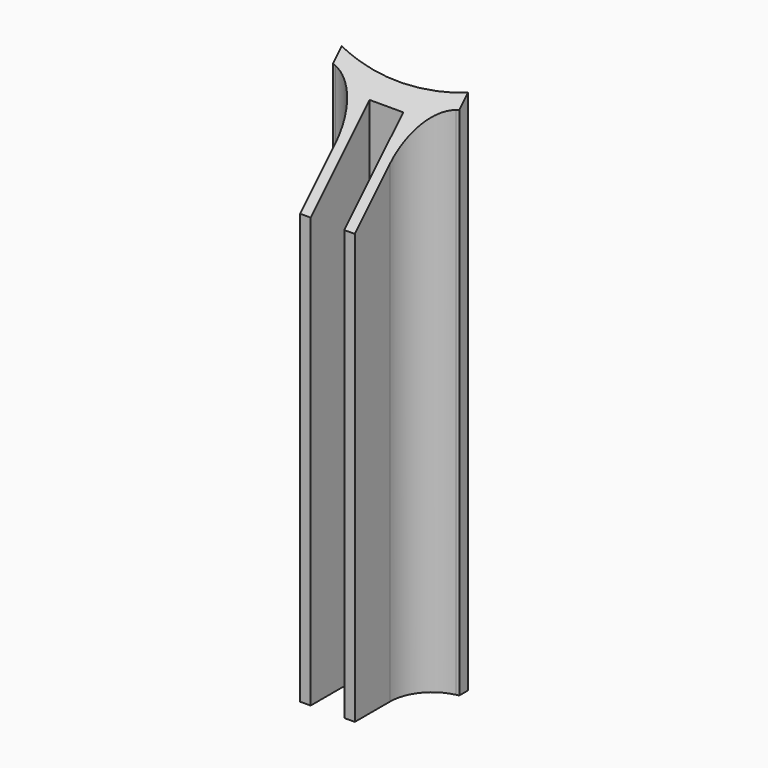
from build123d import *

# Parameters (mm, degrees)
PAD004_DEPTH            = 50
FILLET003_R             = 4
POCKET003_DEPTH         = 8.601
POCKET003_DEPTH_BACK    = 3.401
BODY005_PLACEMENT_ANGLE = 90


with BuildPart() as part:
    # Sketch008 → Pad004 (new body)
    with BuildSketch(Plane.XY):
        with BuildLine():
            ThreePointArc((24.269322, -6), (25, 0), (24.269322, 6))
            Line((24.269322, 6), (25.298221, 6))
            ThreePointArc((25.869673, 2.6), (25.640366, 4.309482), (25.298221, 6))
            Line((25.869673, 2.6), (33.451654, 2.6))
            Line((33.451654, 2.6), (33.451654, 1.6))
            Line((33.451654, 1.6), (26.451654, 1.6))
            Line((26.451654, 1.6), (26.451654, -1.6))
            Line((26.451654, -1.6), (33.451654, -1.6))
            Line((33.451654, -1.6), (33.451654, -2.6))
            Line((33.451654, -2.6), (25.869673, -2.6))
            ThreePointArc((25.298221, -6), (25.640366, -4.309482), (25.869673, -2.6))
            Line((24.269322, -6), (25.298221, -6))
        make_face()
    extrude(amount=PAD004_DEPTH)

    # Fillet003
    fillet003_edges = [part.edges().sort_by_distance(p)[0] for p in [
        (25.869673, -2.6, 25),
        (25.869673, 2.6, 25),
    ]]
    fillet(fillet003_edges, radius=FILLET003_R)

    # Sketch009 (on Face15 of Fillet003) → Pocket003 (cut, two sides)
    with BuildSketch(Plane.XZ.offset(2.6)) as pocket003_sk:
        Polygon((33.451654, 50), (33.451654, 40.817668), (24.269322, 50), align=None)
    extrude(amount=-POCKET003_DEPTH, mode=Mode.SUBTRACT)
    extrude(pocket003_sk.sketch, amount=POCKET003_DEPTH_BACK, mode=Mode.SUBTRACT)


with BuildPart() as part_1:
    # Body005 placement: moved
    add(part.part.rotate(Axis((0, 0, 0), (0, 0, -1)), BODY005_PLACEMENT_ANGLE))


solid = part_1.part
